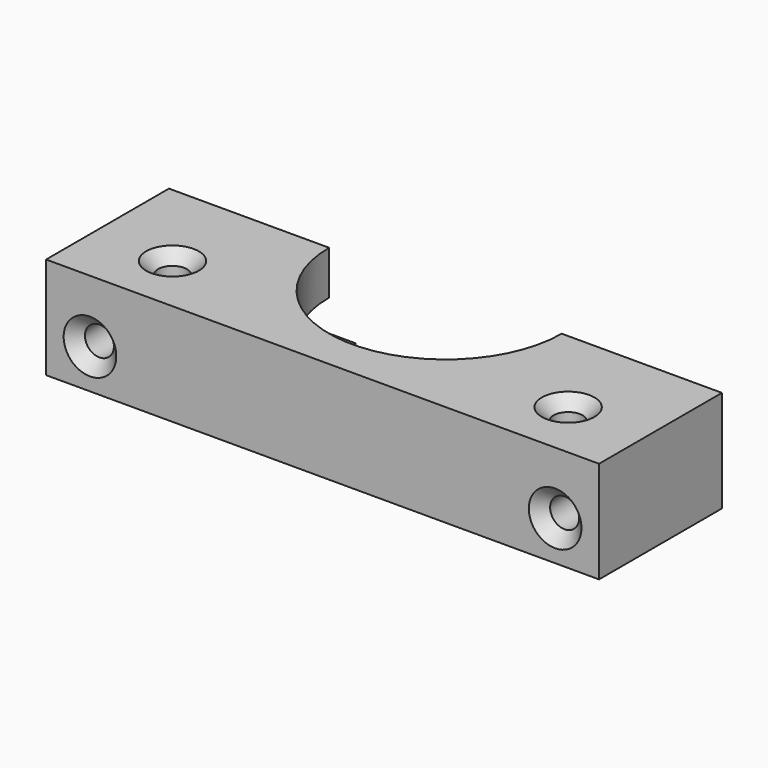
from build123d import *

# Parameters (mm, degrees)
PAD_DEPTH           = 3
PAD001_DEPTH        = 3.6
PAD002_DEPTH        = 5
HOLE001_D           = 3.3
HOLE001_DEPTH       = 25
HOLE001_CSINK_D     = 6
HOLE001_CSINK_ANGLE = 90
HOLE_D              = 3.3
HOLE_DEPTH          = 25
HOLE_CSINK_D        = 6
HOLE_CSINK_ANGLE    = 90


with BuildPart() as part:
    # Sketch → Pad (new body)
    with BuildSketch(Plane.XY):
        with BuildLine():
            Line((-31.5, 8.75), (-10.25, 8.75))
            ThreePointArc((-10.25, 8.75), (0, -1.5), (10.25, 8.75))
            Line((10.25, 8.75), (31.5, 8.75))
            Line((31.5, 8.75), (31.5, -8.75))
            Line((31.5, -8.75), (-31.5, -8.75))
            Line((-31.5, -8.75), (-31.5, 8.75))
        make_face()
    extrude(amount=PAD_DEPTH)

    # Sketch001 (on Face8 of Pad) → Pad001 (join)
    with BuildSketch(Plane.XY.offset(3)):
        Polygon((8.25, -5.539419), (16.5, 8.75), (31.5, 8.75), (31.5, -8.75), (-31.5, -8.75), (-31.5, 8.75), (-16.5, 8.75), (-8.25, -5.539419), align=None)
    extrude(amount=PAD001_DEPTH)

    # Sketch002 (on Face15 of Pad001) → Pad002 (join)
    with BuildSketch(Plane.XY.offset(6.6)):
        with BuildLine():
            Line((-31.5, 8.75), (-13.25, 8.75))
            ThreePointArc((-13.25, 8.75), (0, -4.5), (13.25, 8.75))
            Line((13.25, 8.75), (31.5, 8.75))
            Line((31.5, 8.75), (31.5, -8.75))
            Line((31.5, -8.75), (-31.5, -8.75))
            Line((-31.5, -8.75), (-31.5, 8.75))
        make_face()
    extrude(amount=PAD002_DEPTH)

    # Hole001
    with Locations(Plane.XY.offset(11.6)):
        with Locations((-22.54, -1.95), (22.54, -1.95)):
            CounterSinkHole(HOLE001_D / 2, HOLE001_CSINK_D / 2, depth=HOLE001_DEPTH, counter_sink_angle=HOLE001_CSINK_ANGLE)

    # Hole
    with Locations(Plane.XZ.offset(8.75)):
        with Locations((26.5, 4.5), (-26.5, 4.5)):
            CounterSinkHole(HOLE_D / 2, HOLE_CSINK_D / 2, depth=HOLE_DEPTH, counter_sink_angle=HOLE_CSINK_ANGLE)


solid = part.part
